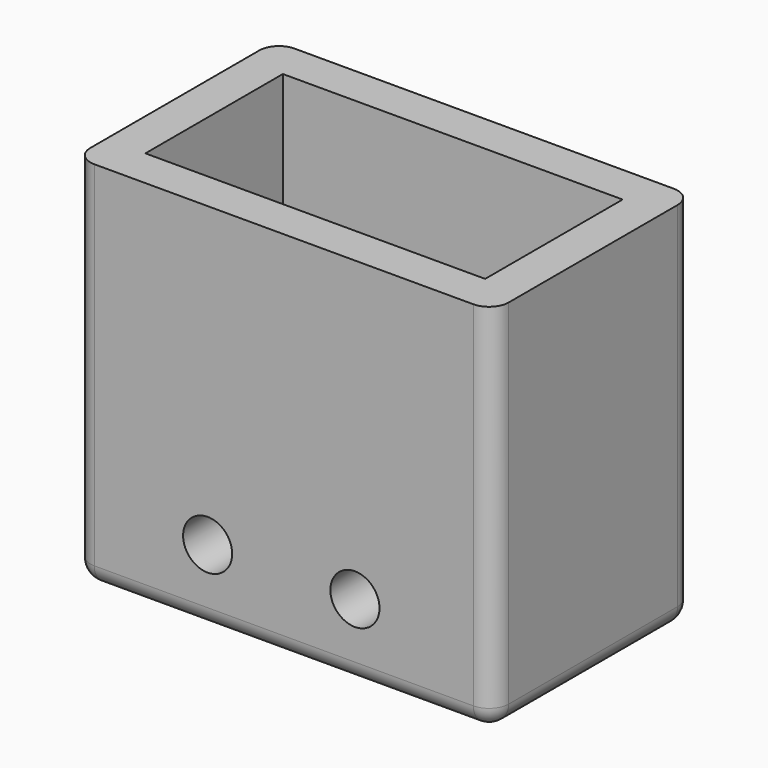
from build123d import *

# Parameters (mm, degrees)
F0_W     = 34.6
F0_H     = 17.5
F1_DEPTH = 38
F2_DEPTH = 23
F3_R     = 2.5
F4_DEPTH = 25.501001
F5_R     = 2


with BuildPart() as f1:
    # F0 (on Top) → F1 (new body)
    with BuildSketch(Plane.XY):
        with BuildLine():
            Line((36.600001, 21.500001), (-2.000001, 21.500001))
            ThreePointArc((-2.000001, 21.500001), (-3.414214, 20.914214), (-4.000001, 19.500001))
            Line((-4.000001, 19.500001), (-4.000001, -2.000001))
            ThreePointArc((-4.000001, -2.000001), (-3.414214, -3.414214), (-2.000001, -4.000001))
            Line((-2.000001, -4.000001), (36.600001, -4.000001))
            ThreePointArc((36.600001, -4.000001), (38.014214, -3.414214), (38.600001, -2.000001))
            Line((38.600001, -2.000001), (38.600001, 19.500001))
            ThreePointArc((38.600001, 19.500001), (38.014214, 20.914214), (36.600001, 21.500001))
        make_face()
        with Locations((17.3, 8.75)):
            Rectangle(F0_W, F0_H, mode=Mode.SUBTRACT)
        with Locations((17.3, 8.75)):
            Rectangle(F0_W, F0_H)
    extrude(amount=-F1_DEPTH)

    # F0 (on Top) → F2 (cut)
    with BuildSketch(Plane.XY):
        with Locations((17.3, 8.75)):
            Rectangle(F0_W, F0_H)
    extrude(amount=-F2_DEPTH, mode=Mode.SUBTRACT)

    # F3 (on face) → F4 (cut, through all)
    with BuildSketch(Plane.XZ.offset(4.000001)):
        with BuildLine():
            ThreePointArc((22.039303, -30.356017), (24.539303, -32.856017), (27.039303, -30.356017))
            ThreePointArc((27.039303, -30.356017), (24.539303, -27.856017), (22.039303, -30.356017))
        make_face()
        with Locations((9.539303, -30.356017)):
            Circle(F3_R)
    extrude(amount=-F4_DEPTH, mode=Mode.SUBTRACT)

    # F5
    f5_edges = [f1.edges().sort_by_distance(p)[0] for p in [
        (17.3, 21.500001, -38),
    ]]
    fillet(f5_edges, radius=F5_R)


solid = f1.part
